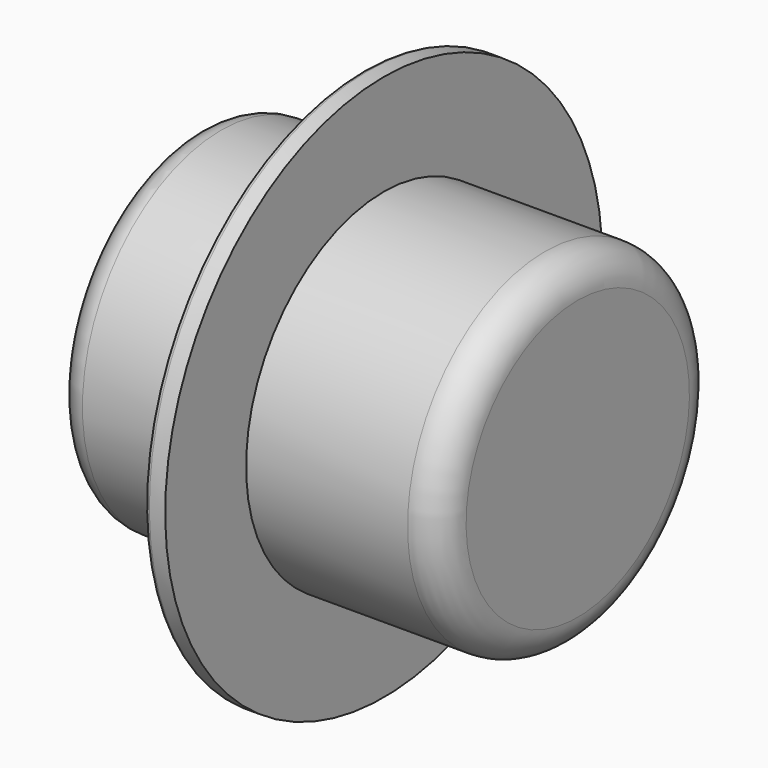
from build123d import *


with BuildPart() as f1:
    # F0 (on Front) → F1 (revolve)
    with BuildSketch(Plane.XZ):
        with BuildLine():
            Line((-42.988531, 26.665349), (-42.988531, 0))
            Line((-42.988531, 0), (27.039163, 0))
            Line((27.039163, 0), (27.039163, 25.46965))
            ThreePointArc((27.039163, 25.46965), (25.30211, 29.663266), (21.108494, 31.400319))
            Line((21.108494, 31.400319), (-8.348497, 31.400319))
            Line((-8.348497, 31.400319), (-8.348497, 49.841773))
            Line((-8.348497, 49.841773), (-11.235781, 49.841773))
            ThreePointArc((-11.235781, 49.841773), (-11.837422, 49.592565), (-12.08663, 48.990924))
            Line((-12.08663, 48.990924), (-12.08663, 34.614854))
            ThreePointArc((-12.08663, 34.614854), (-12.955154, 32.518051), (-15.051958, 31.649526))
            Line((-15.051958, 31.649526), (-38.004354, 31.649526))
            ThreePointArc((-38.004354, 31.649526), (-41.528699, 30.189694), (-42.988531, 26.665349))
        make_face()
    revolve(axis=Axis((-7.974684, 0, 0), (-1, 0, 0)))


solid = f1.part
